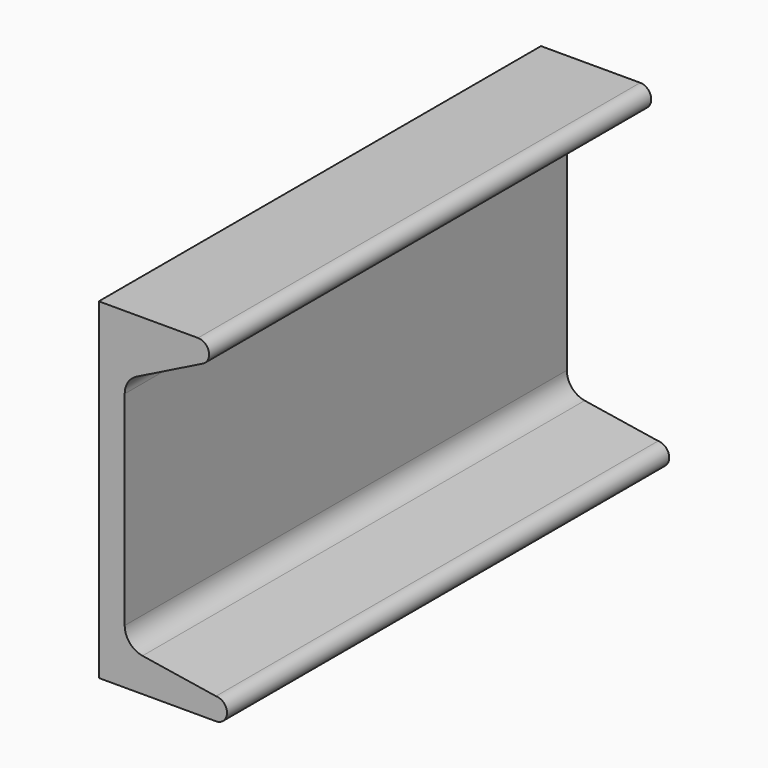
from build123d import *

# Parameters (mm, degrees)
F1_DEPTH = 127


with BuildPart() as f1:
    # F0 (on Front) → F1 (new body)
    with BuildSketch(Plane.XZ):
        with BuildLine():
            Line((22.795393, 76.2), (0, 76.2))
            Line((0, 76.2), (0, 0))
            Line((0, 0), (26.921809, 0))
            ThreePointArc((26.921809, 0), (29.461809, 2.54), (26.921809, 5.08))
            Line((26.921809, 5.08), (10.041228, 7.753621))
            ThreePointArc((10.041228, 7.753621), (7.111121, 9.39456), (5.948755, 12.545292))
            Line((5.948755, 12.545292), (5.948755, 59.417483))
            ThreePointArc((5.948755, 59.417483), (6.674571, 61.970059), (8.634843, 63.758855))
            Line((8.634843, 63.758855), (23.929064, 71.38703))
            ThreePointArc((23.929064, 71.38703), (25.267734, 74.242348), (22.795393, 76.2))
        make_face()
    extrude(amount=F1_DEPTH)


solid = f1.part
